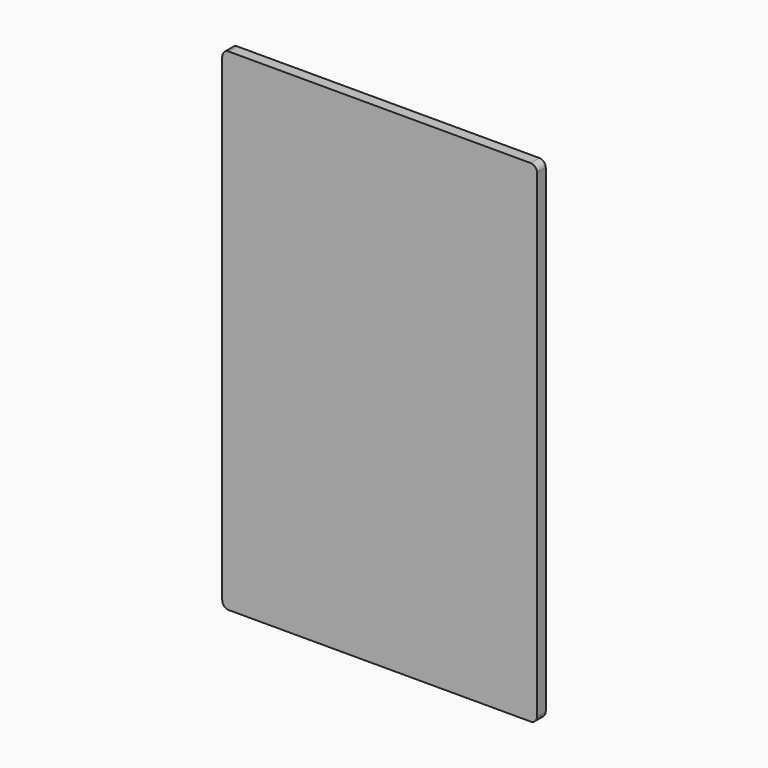
from build123d import *

# Parameters (mm, degrees)
F0_W     = 61.8183612823
F0_H     = 96.574626863
F1_DEPTH = 1.2738564983
F2_R     = 1.27
F3_R     = 1.27
F4_R     = 1.27
F5_R     = 1.27
F6_DEPTH = 0.876404345


with BuildPart() as f1:
    # F0 (on Front) → F1 (new body)
    with BuildSketch(Plane.XZ):
        with Locations((-5.9528946877, 1.8445216119)):
            Rectangle(F0_W, F0_H)
    extrude(amount=F1_DEPTH)

    # F2
    f2_edges = [f1.edges().sort_by_distance(p)[0] for p in [
        (-36.862075, -0.636928, -46.442792),
    ]]
    fillet(f2_edges, radius=F2_R)

    # F3
    f3_edges = [f1.edges().sort_by_distance(p)[0] for p in [
        (24.956286, -0.636928, -46.442792),
    ]]
    fillet(f3_edges, radius=F3_R)

    # F4
    f4_edges = [f1.edges().sort_by_distance(p)[0] for p in [
        (24.956286, -0.636928, 50.131835),
    ]]
    fillet(f4_edges, radius=F4_R)

    # F5
    f5_edges = [f1.edges().sort_by_distance(p)[0] for p in [
        (-36.862075, -0.636928, 50.131835),
    ]]
    fillet(f5_edges, radius=F5_R)

    # F6 (add): a face of the model
    f6_faces = [f1.faces().sort_by_distance(p)[0] for p in [
        (-5.9528946877, -1.2738564983, 1.8445216119),
    ]]
    extrude(f6_faces, amount=F6_DEPTH)


solid = f1.part
